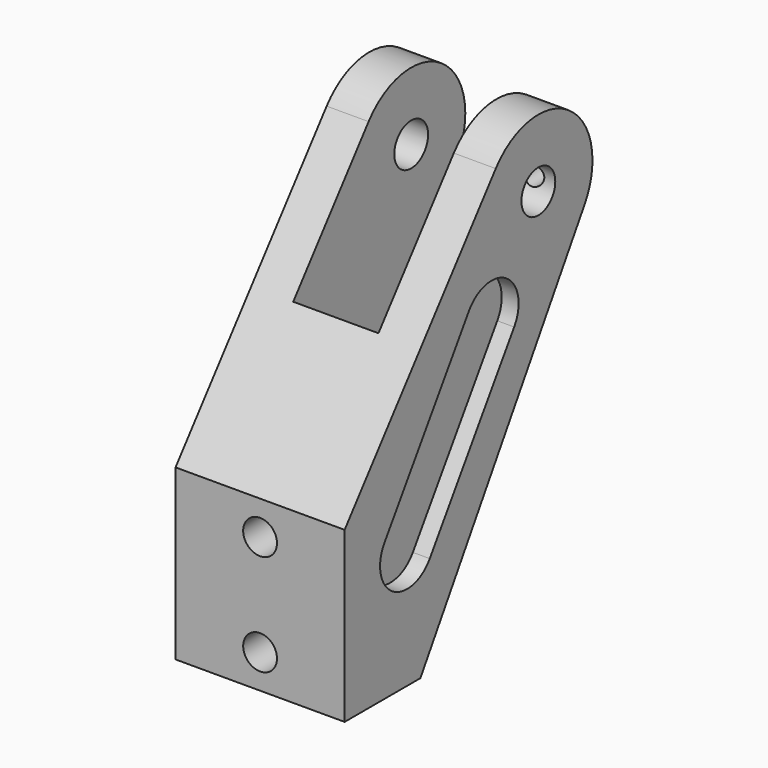
from build123d import *

# Parameters (mm, degrees)
F0_R      = 1.5875
F1_DEPTH  = 12.7
F2_R      = 1.27
F3_DEPTH  = 25.4
F5_DEPTH  = 32.767
F7_R      = 0.762
F8_DEPTH  = 5.08
F10_DEPTH = 1.27
F12_DEPTH = 1.27


with BuildPart() as f1:
    # F0 (on Right) → F1 (new body)
    with BuildSketch(Plane.YZ):
        with BuildLine():
            ThreePointArc((22.5126934436, 25.0233725308), (23.0743428543, 26.3023762602), (23.2664, 27.686))
            ThreePointArc((23.2664, 27.686), (19.8428720781, 32.4883432046), (14.1866754903, 30.817869066))
            Line((14.1866754903, 30.817869066), (0, 12.7))
            Line((0, 12.7), (0, 0))
            Line((0, 0), (7.112, 0))
            Line((7.112, 0), (22.5126934436, 25.0233725308))
        make_face()
        with Locations((18.1864, 27.686)):
            Circle(F0_R, mode=Mode.SUBTRACT)
    extrude(amount=-F1_DEPTH)

    # F2 (on face) → F3 (cut)
    with BuildSketch(Plane.XZ):
        with Locations((-6.35, 10.16)):
            Circle(F2_R)
        with Locations((-6.35, 2.54)):
            Circle(F2_R)
    extrude(amount=-F3_DEPTH, mode=Mode.SUBTRACT)

    # F4 (on face) → F5 (cut, through all)
    with BuildSketch(Plane(origin=(0, 0, 0), x_dir=(1, 0, 0), z_dir=(0, 0, -1))):
        Polygon((-5.5372, -7.112), (-7.1628, -7.112), (-9.5504, -7.112), (-9.5504, -9.4996), (-9.5504, -27.9279650633), (-3.1496, -27.9279650633), (-3.1496, -9.4996), (-3.1496, -7.112), align=None)
    extrude(amount=-F5_DEPTH, mode=Mode.SUBTRACT)

    # F7 (on plane+point) → F8 (cut)
    with BuildSketch(Plane.XZ.offset(-23.2664)):
        with Locations((-1.5849518823, 27.6825465262)):
            Circle(F7_R)
    extrude(amount=F8_DEPTH, mode=Mode.SUBTRACT)

    # F9 (on face) → F10 (cut)
    with BuildSketch(Plane.YZ):
        with BuildLine():
            Line((11.667870953, 22.4236173585), (3.743070953, 10.3332173585))
            ThreePointArc((3.743070953, 10.3332173585), (4.4749826415, 6.816470953), (7.991729047, 7.5483826415))
            Line((7.991729047, 7.5483826415), (15.916529047, 19.6387826415))
            ThreePointArc((15.916529047, 19.6387826415), (15.1846173585, 23.155529047), (11.667870953, 22.4236173585))
        make_face()
    extrude(amount=-F10_DEPTH, mode=Mode.SUBTRACT)

    # F11 (on face) → F12 (cut)
    with BuildSketch(Plane(origin=(-12.7, 0, 0), x_dir=(0, -1, 0), z_dir=(-1, 0, 0))):
        with BuildLine():
            Line((-15.916529047, 19.6387826415), (-7.991729047, 7.5483826415))
            ThreePointArc((-7.991729047, 7.5483826415), (-4.4749826415, 6.816470953), (-3.743070953, 10.3332173585))
            Line((-3.743070953, 10.3332173585), (-11.667870953, 22.4236173585))
            ThreePointArc((-11.667870953, 22.4236173585), (-15.1846173585, 23.155529047), (-15.916529047, 19.6387826415))
        make_face()
    extrude(amount=-F12_DEPTH, mode=Mode.SUBTRACT)


solid = f1.part
